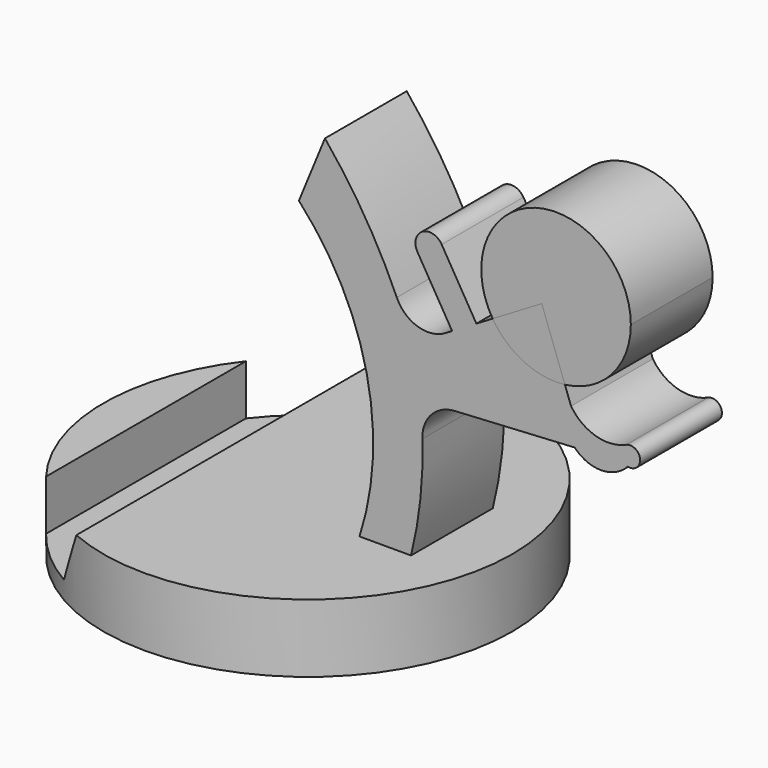
from build123d import *

# Parameters (mm, degrees)
F0_R      = 30
F1_DEPTH  = 10
F3_DEPTH  = 36.6
F4_DEPTH  = 7.5
F5_DEPTH  = 7.5
F6_DEPTH  = 7.5
F7_DEPTH  = 7.5
F8_DEPTH  = 7.5
F9_DEPTH  = 7.5
F10_DEPTH = 7.5


with BuildPart() as f1:
    # F0 (on Top) → F1 (new body)
    with BuildSketch(Plane.XY):
        Circle(F0_R)
    extrude(amount=F1_DEPTH)

    # F2 (on Front) → F3 (cut, symmetric)
    with BuildSketch(Plane.XZ):
        Polygon((-23.752017, 2.609918), (-15.000855, 2.609918), (-11.70979, 10.612488), (-23.752017, 10.612488), align=None)
    extrude(amount=F3_DEPTH, both=True, mode=Mode.SUBTRACT)

    # F2 (on Front) → F4 (join, symmetric)
    with BuildSketch(Plane.XZ):
        with BuildLine():
            Line((8.509134, 59.776919), (4.685482, 50.479309))
            ThreePointArc((4.685482, 50.479309), (14.632215, 31.443401), (13.578704, 9.991281))
            Line((13.578704, 9.991281), (21.138772, 9.991281))
            ThreePointArc((21.138772, 9.991281), (22.513844, 17.735509), (22.796076, 25.595804))
            ThreePointArc((22.796076, 25.595804), (24.101227, 29.137781), (27.510648, 30.757927))
            Line((27.510648, 30.757927), (45.155515, 31.756574))
            Line((45.155515, 31.756574), (46.479001, 31.831479))
            Line((46.479001, 31.831479), (44.623066, 36.935325))
            Line((44.623066, 36.935325), (43.721419, 39.414866))
            ThreePointArc((43.721419, 39.414866), (37.681727, 40.412232), (33.11581, 44.489611))
            Line((33.11581, 44.489611), (30.728899, 43.070735))
            Line((30.728899, 43.070735), (27.170425, 40.955436))
            Line((27.170425, 40.955436), (26.182877, 40.368398))
            ThreePointArc((26.182877, 40.368398), (22.103598, 39.904413), (19.052114, 42.651091))
            ThreePointArc((19.052114, 42.651091), (14.36798, 51.575592), (8.509134, 59.776919))
        make_face()
    extrude(amount=F4_DEPTH, both=True)

    # F2 (on Front) → F7 (join, symmetric)
    with BuildSketch(Plane.XZ):
        Polygon((22.075249, 49.526824), (27.170425, 40.955436), (30.728899, 43.070735), (25.633722, 51.642123), align=None)
    extrude(amount=F7_DEPTH, both=True)

    # F2 (on Front) → F8 (join, symmetric)
    with BuildSketch(Plane.XZ):
        with BuildLine():
            ThreePointArc((25.633722, 51.642123), (22.796836, 52.36371), (22.075249, 49.526824))
            Line((22.075249, 49.526824), (25.633722, 51.642123))
        make_face()
    extrude(amount=F8_DEPTH, both=True)

    # F2 (on Front) → F9 (join, symmetric)
    with BuildSketch(Plane.XZ):
        with BuildLine():
            Line((46.479001, 31.831479), (45.155515, 31.756574))
            ThreePointArc((45.155515, 31.756574), (49.067291, 30.087217), (52.946247, 31.831479))
            Line((52.946247, 31.831479), (52.710793, 34.568003))
            ThreePointArc((52.710793, 34.568003), (48.230587, 34.260941), (44.623066, 36.935325))
            Line((44.623066, 36.935325), (46.479001, 31.831479))
        make_face()
    extrude(amount=F9_DEPTH, both=True)

    # F2 (on Front) → F10 (join, symmetric)
    with BuildSketch(Plane.XZ):
        with BuildLine():
            Line((52.710793, 34.568003), (52.946247, 31.831479))
            ThreePointArc((52.946247, 31.831479), (54.754823, 33.365482), (52.710793, 34.568003))
        make_face()
    extrude(amount=F10_DEPTH, both=True)


with BuildPart() as f5:
    # F2 (on Front) → F5 (new body, symmetric)
    with BuildSketch(Plane.XZ):
        with BuildLine():
            ThreePointArc((53.393428, 50.311983), (39.389906, 60.860464), (33.11581, 44.489611))
            Line((33.11581, 44.489611), (40.319025, 48.771491))
            Line((40.319025, 48.771491), (43.721419, 39.414866))
            ThreePointArc((43.721419, 39.414866), (50.626672, 43.026811), (53.393428, 50.311983))
        make_face()
    extrude(amount=F5_DEPTH, both=True)


with BuildPart() as f6:
    # F2 (on Front) → F6 (new body, symmetric)
    with BuildSketch(Plane.XZ):
        with BuildLine():
            Line((40.319025, 48.771491), (33.11581, 44.489611))
            ThreePointArc((33.11581, 44.489611), (37.681727, 40.412232), (43.721419, 39.414866))
            Line((43.721419, 39.414866), (40.319025, 48.771491))
        make_face()
    extrude(amount=F6_DEPTH, both=True)


solid = Compound([f1.part, f5.part, f6.part])
